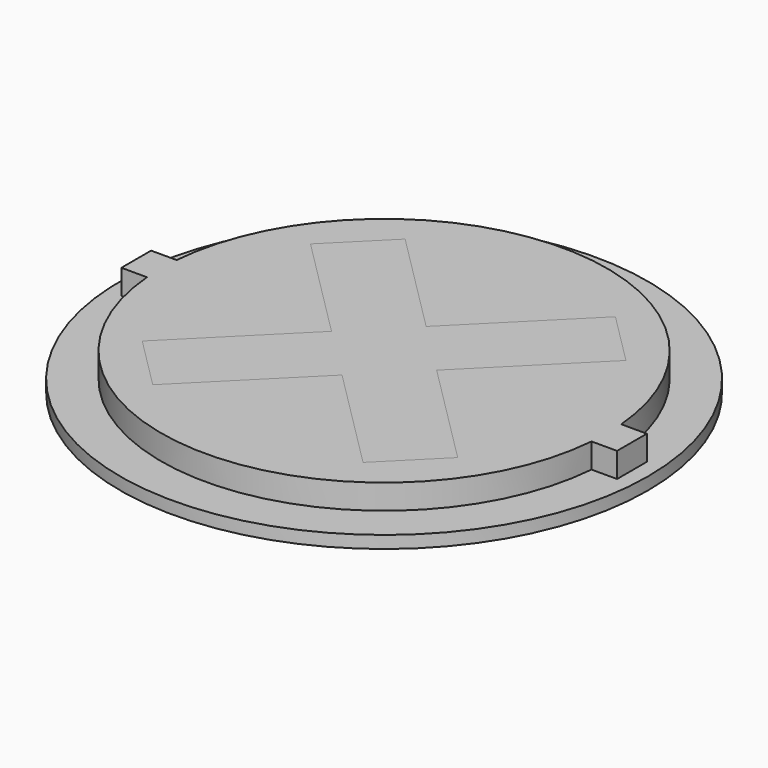
from build123d import *

# Parameters (mm, degrees)
F0_R     = 10.65
F1_DEPTH = 0.5
F3_DEPTH = 1
F4_DEPTH = 1.5


with BuildPart() as f1:
    # F0 (on Top) → F1 (new body)
    with BuildSketch(Plane.XY):
        Circle(F0_R)
        Polygon((-4.2426406871, -6.3639610307), (-6.3639610307, -4.2426406871), (-2.1213203436, 0), (-6.3639610307, 4.2426406871), (-4.2426406871, 6.3639610307), (0, 2.1213203436), (4.2426406871, 6.3639610307), (6.3639610307, 4.2426406871), (2.1213203436, 0), (6.3639610307, -4.2426406871), (4.2426406871, -6.3639610307), (0, -2.1213203436), align=None, mode=Mode.SUBTRACT)
    extrude(amount=F1_DEPTH)

    # F2 (on face) → F3 (join)
    with BuildSketch(Plane.XY.offset(0.5)):
        with BuildLine():
            Line((-10, -0.75), (-8.9686955573, -0.75))
            ThreePointArc((-8.9686955573, -0.75), (0, -9), (8.9686955573, -0.75))
            Line((8.9686955573, -0.75), (10, -0.75))
            Line((10, -0.75), (10, 0.75))
            Line((10, 0.75), (8.9686955573, 0.75))
            ThreePointArc((8.9686955573, 0.75), (0, 9), (-8.9686955573, 0.75))
            Line((-8.9686955573, 0.75), (-10, 0.75))
            Line((-10, 0.75), (-10, -0.75))
        make_face()
        Polygon((6.3639610307, -4.2426406871), (4.2426406871, -6.3639610307), (0, -2.1213203436), (-4.2426406871, -6.3639610307), (-6.3639610307, -4.2426406871), (-2.1213203436, 0), (-6.3639610307, 4.2426406871), (-4.2426406871, 6.3639610307), (0, 2.1213203436), (4.2426406871, 6.3639610307), (6.3639610307, 4.2426406871), (2.1213203436, 0), align=None, mode=Mode.SUBTRACT)
    extrude(amount=F3_DEPTH)


with BuildPart() as f4:
    # F0 (on Top) → F4 (new body, through all)
    with BuildSketch(Plane.XY):
        Polygon((-2.1213203436, 0), (-6.3639610307, -4.2426406871), (-4.2426406871, -6.3639610307), (0, -2.1213203436), (4.2426406871, -6.3639610307), (6.3639610307, -4.2426406871), (2.1213203436, 0), (6.3639610307, 4.2426406871), (4.2426406871, 6.3639610307), (0, 2.1213203436), (-4.2426406871, 6.3639610307), (-6.3639610307, 4.2426406871), align=None)
    extrude(amount=F4_DEPTH)


solid = Compound([f1.part, f4.part])
